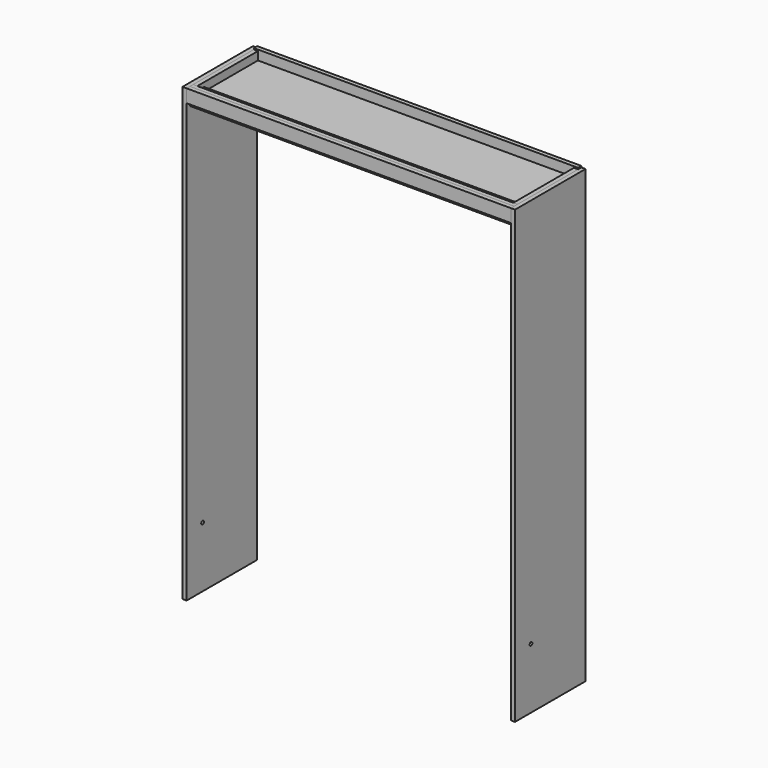
from build123d import *

# Parameters (mm, degrees)
F0_W           = 1495.425
F0_H           = 349.25
F1_DEPTH       = 19.05
F2_W           = 19.05
F2_H           = 349.25
F3_DEPTH       = 38.1
F4_W           = 1495.425
F4_H           = 63.5
F5_DEPTH       = 19.05
F7_DEPTH       = 79.375
F6_W           = 1495.425
F6_H           = 19.05
F8_DEPTH       = 60.325
F9_W           = 1457.325
F9_H           = 38.1
F10_DEPTH      = 19.05
F11_DEPTH      = 2079.625
F12_R          = 7.9375
F13_DEPTH      = 19.051
F13_DEPTH_BACK = 1514.476


with BuildPart() as f1:
    # F0 (on Top) → F1 (new body)
    with BuildSketch(Plane.XY):
        with Locations((747.7125, -174.625)):
            Rectangle(F0_W, F0_H)
    extrude(amount=F1_DEPTH)


with BuildPart() as f3:
    # F2 (on face) → F3 (new body)
    with BuildSketch(Plane.XY.offset(19.05)):
        with Locations((9.525, -174.625)):
            Rectangle(F2_W, F2_H)
    extrude(amount=F3_DEPTH)


with BuildPart() as f3b:
    # F2 (on face) → F3, piece 2 (new body)
    with BuildSketch(Plane.XY.offset(19.05)):
        with Locations((1485.9, -174.625)):
            Rectangle(F2_W, F2_H)
    extrude(amount=F3_DEPTH)


with BuildPart() as f5:
    # F4 (on Front) → F5 (new body)
    with BuildSketch(Plane.XZ):
        with Locations((747.7125, 31.75)):
            Rectangle(F4_W, F4_H)
    extrude(amount=-F5_DEPTH)


with BuildPart() as f7:
    # F6 (on face) → F7 (new body)
    with BuildSketch(Plane.XY.offset(57.15)):
        Polygon((19.05, -349.25), (0, -349.25), (0, -368.3), (1495.425, -368.3), (1495.425, -349.25), align=None)
    extrude(amount=-F7_DEPTH)


with BuildPart() as f8:
    # F6 (on face) → F8 (new body)
    with BuildSketch(Plane.XY.offset(57.15)):
        with Locations((747.7125, -377.825)):
            Rectangle(F6_W, F6_H)
    extrude(amount=-F8_DEPTH)


with BuildPart() as f10:
    # F9 (on face) → F10 (new body)
    with BuildSketch(Plane.XY.offset(19.05)):
        with Locations((747.7125, -330.2)):
            Rectangle(F9_W, F9_H)
    extrude(amount=F10_DEPTH)


with BuildPart() as f11:
    # F6 (on face) → F11 (new body)
    with BuildSketch(Plane.XY.offset(57.15)):
        Polygon((0, -368.3), (0, -349.25), (0, 0), (0, 19.05), (-19.05, 19.05), (-19.05, -387.35), (0, -387.35), align=None)
    extrude(amount=-F11_DEPTH)


with BuildPart() as f11b:
    # F6 (on face) → F11, piece 2 (new body)
    with BuildSketch(Plane.XY.offset(57.15)):
        Polygon((1495.425, 19.05), (1495.425, -349.25), (1495.425, -368.3), (1495.425, -387.35), (1514.475, -387.35), (1514.475, 19.05), align=None)
    extrude(amount=-F11_DEPTH)


with BuildPart() as f13_tool:
    # F12 (on face) → F13 (new body, two sides)
    with BuildSketch(Plane.YZ) as f13_sk:
        with Locations((-295.275, -1743.075)):
            Circle(F12_R)
    extrude(amount=-F13_DEPTH)
    extrude(f13_sk.sketch, amount=F13_DEPTH_BACK)


with BuildPart() as f11_1:
    add(f11.part)

    # F13: cut by f13_tool
    add(f13_tool.part, mode=Mode.SUBTRACT)


with BuildPart() as f11b_1:
    add(f11b.part)

    # F13: cut by f13_tool
    add(f13_tool.part, mode=Mode.SUBTRACT)


solid = Compound([f1.part, f3.part, f3b.part, f5.part, f7.part, f8.part, f10.part, f11_1.part, f11b_1.part])
